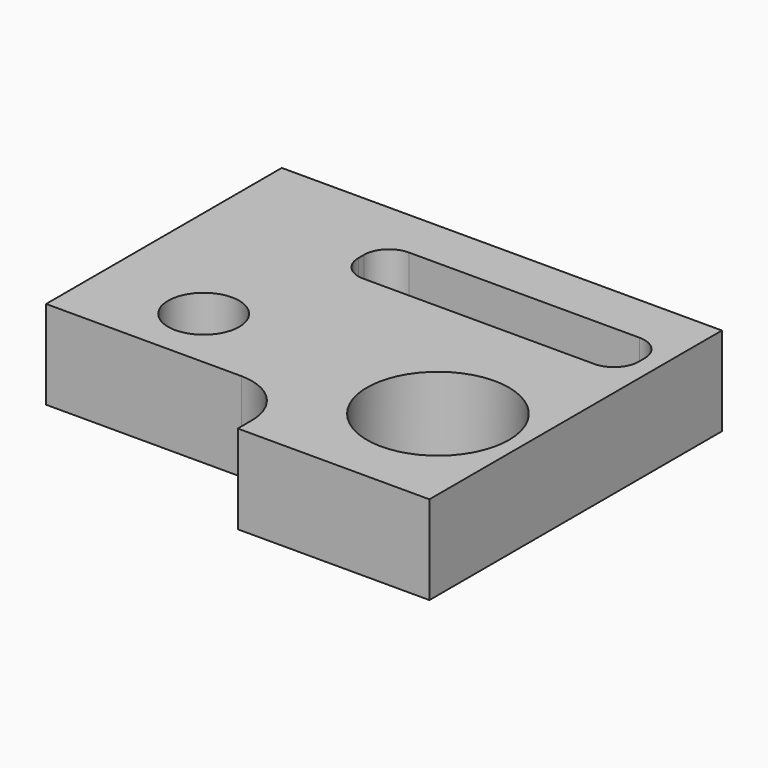
from build123d import *

# Parameters (mm, degrees)
F0_R     = 10
F0_R_2   = 20
F1_DEPTH = 25
F2_DEPTH = 25
F3_DEPTH = 25
F4_DEPTH = 25
F5_DEPTH = 25


with BuildPart() as f1:
    # F0 (on Top) → F1 (new body)
    with BuildSketch(Plane.XY):
        with BuildLine():
            Line((69.319781, 74.291547), (-54.680219, 74.291547))
            Line((-54.680219, 74.291547), (-54.680219, -8.708453))
            Line((-54.680219, -8.708453), (0.319781, -8.708453))
            ThreePointArc((0.319781, -8.708453), (10.926383, -13.101851), (15.319781, -23.708453))
            Line((15.319781, -23.708453), (15.319781, -28.708453))
            Line((15.319781, -28.708453), (69.319781, -28.708453))
            Line((69.319781, -28.708453), (69.319781, 74.291547))
        make_face()
        with Locations((-24.680219, 9.291547)):
            Circle(F0_R, mode=Mode.SUBTRACT)
        with Locations((45.319781, 4.291547)):
            Circle(F0_R_2, mode=Mode.SUBTRACT)
        with BuildLine():
            ThreePointArc((-14.680219, 53.291547), (-12.629966, 58.241294), (-7.680219, 60.291547))
            Line((-7.680219, 60.291547), (57.319781, 60.291547))
            ThreePointArc((57.319781, 60.291547), (62.269529, 58.241294), (64.319781, 53.291547))
            Line((64.319781, 53.291547), (64.319781, 51.291547))
            ThreePointArc((64.319781, 51.291547), (62.269529, 46.341799), (57.319781, 44.291547))
            Line((57.319781, 44.291547), (-7.680219, 44.291547))
            ThreePointArc((-7.680219, 44.291547), (-12.629966, 46.341799), (-14.680219, 51.291547))
            Line((-14.680219, 51.291547), (-14.680219, 53.291547))
        make_face(mode=Mode.SUBTRACT)
    extrude(amount=F1_DEPTH)

    # F0 (on Top) → F2 (join)
    with BuildSketch(Plane.XY):
        with BuildLine():
            Line((69.319781, 74.291547), (-54.680219, 74.291547))
            Line((-54.680219, 74.291547), (-54.680219, -8.708453))
            Line((-54.680219, -8.708453), (0.319781, -8.708453))
            ThreePointArc((0.319781, -8.708453), (10.926383, -13.101851), (15.319781, -23.708453))
            Line((15.319781, -23.708453), (15.319781, -28.708453))
            Line((15.319781, -28.708453), (69.319781, -28.708453))
            Line((69.319781, -28.708453), (69.319781, 74.291547))
        make_face()
        with Locations((-24.680219, 9.291547)):
            Circle(F0_R, mode=Mode.SUBTRACT)
        with Locations((45.319781, 4.291547)):
            Circle(F0_R_2, mode=Mode.SUBTRACT)
        with BuildLine():
            ThreePointArc((-14.680219, 53.291547), (-12.629966, 58.241294), (-7.680219, 60.291547))
            Line((-7.680219, 60.291547), (57.319781, 60.291547))
            ThreePointArc((57.319781, 60.291547), (62.269529, 58.241294), (64.319781, 53.291547))
            Line((64.319781, 53.291547), (64.319781, 51.291547))
            ThreePointArc((64.319781, 51.291547), (62.269529, 46.341799), (57.319781, 44.291547))
            Line((57.319781, 44.291547), (-7.680219, 44.291547))
            ThreePointArc((-7.680219, 44.291547), (-12.629966, 46.341799), (-14.680219, 51.291547))
            Line((-14.680219, 51.291547), (-14.680219, 53.291547))
        make_face(mode=Mode.SUBTRACT)
    extrude(amount=F2_DEPTH)

    # F0 (on Top) → F3 (join)
    with BuildSketch(Plane.XY):
        with BuildLine():
            Line((69.319781, 74.291547), (-54.680219, 74.291547))
            Line((-54.680219, 74.291547), (-54.680219, -8.708453))
            Line((-54.680219, -8.708453), (0.319781, -8.708453))
            ThreePointArc((0.319781, -8.708453), (10.926383, -13.101851), (15.319781, -23.708453))
            Line((15.319781, -23.708453), (15.319781, -28.708453))
            Line((15.319781, -28.708453), (69.319781, -28.708453))
            Line((69.319781, -28.708453), (69.319781, 74.291547))
        make_face()
        with Locations((-24.680219, 9.291547)):
            Circle(F0_R, mode=Mode.SUBTRACT)
        with Locations((45.319781, 4.291547)):
            Circle(F0_R_2, mode=Mode.SUBTRACT)
        with BuildLine():
            ThreePointArc((-14.680219, 53.291547), (-12.629966, 58.241294), (-7.680219, 60.291547))
            Line((-7.680219, 60.291547), (57.319781, 60.291547))
            ThreePointArc((57.319781, 60.291547), (62.269529, 58.241294), (64.319781, 53.291547))
            Line((64.319781, 53.291547), (64.319781, 51.291547))
            ThreePointArc((64.319781, 51.291547), (62.269529, 46.341799), (57.319781, 44.291547))
            Line((57.319781, 44.291547), (-7.680219, 44.291547))
            ThreePointArc((-7.680219, 44.291547), (-12.629966, 46.341799), (-14.680219, 51.291547))
            Line((-14.680219, 51.291547), (-14.680219, 53.291547))
        make_face(mode=Mode.SUBTRACT)
    extrude(amount=F3_DEPTH)

    # F0 (on Top) → F4 (join)
    with BuildSketch(Plane.XY):
        with BuildLine():
            Line((69.319781, 74.291547), (-54.680219, 74.291547))
            Line((-54.680219, 74.291547), (-54.680219, -8.708453))
            Line((-54.680219, -8.708453), (0.319781, -8.708453))
            ThreePointArc((0.319781, -8.708453), (10.926383, -13.101851), (15.319781, -23.708453))
            Line((15.319781, -23.708453), (15.319781, -28.708453))
            Line((15.319781, -28.708453), (69.319781, -28.708453))
            Line((69.319781, -28.708453), (69.319781, 74.291547))
        make_face()
        with Locations((-24.680219, 9.291547)):
            Circle(F0_R, mode=Mode.SUBTRACT)
        with Locations((45.319781, 4.291547)):
            Circle(F0_R_2, mode=Mode.SUBTRACT)
        with BuildLine():
            ThreePointArc((-14.680219, 53.291547), (-12.629966, 58.241294), (-7.680219, 60.291547))
            Line((-7.680219, 60.291547), (57.319781, 60.291547))
            ThreePointArc((57.319781, 60.291547), (62.269529, 58.241294), (64.319781, 53.291547))
            Line((64.319781, 53.291547), (64.319781, 51.291547))
            ThreePointArc((64.319781, 51.291547), (62.269529, 46.341799), (57.319781, 44.291547))
            Line((57.319781, 44.291547), (-7.680219, 44.291547))
            ThreePointArc((-7.680219, 44.291547), (-12.629966, 46.341799), (-14.680219, 51.291547))
            Line((-14.680219, 51.291547), (-14.680219, 53.291547))
        make_face(mode=Mode.SUBTRACT)
    extrude(amount=F4_DEPTH)

    # F0 (on Top) → F5 (join)
    with BuildSketch(Plane.XY):
        with BuildLine():
            Line((69.319781, 74.291547), (-54.680219, 74.291547))
            Line((-54.680219, 74.291547), (-54.680219, -8.708453))
            Line((-54.680219, -8.708453), (0.319781, -8.708453))
            ThreePointArc((0.319781, -8.708453), (10.926383, -13.101851), (15.319781, -23.708453))
            Line((15.319781, -23.708453), (15.319781, -28.708453))
            Line((15.319781, -28.708453), (69.319781, -28.708453))
            Line((69.319781, -28.708453), (69.319781, 74.291547))
        make_face()
        with Locations((-24.680219, 9.291547)):
            Circle(F0_R, mode=Mode.SUBTRACT)
        with Locations((45.319781, 4.291547)):
            Circle(F0_R_2, mode=Mode.SUBTRACT)
        with BuildLine():
            ThreePointArc((-14.680219, 53.291547), (-12.629966, 58.241294), (-7.680219, 60.291547))
            Line((-7.680219, 60.291547), (57.319781, 60.291547))
            ThreePointArc((57.319781, 60.291547), (62.269529, 58.241294), (64.319781, 53.291547))
            Line((64.319781, 53.291547), (64.319781, 51.291547))
            ThreePointArc((64.319781, 51.291547), (62.269529, 46.341799), (57.319781, 44.291547))
            Line((57.319781, 44.291547), (-7.680219, 44.291547))
            ThreePointArc((-7.680219, 44.291547), (-12.629966, 46.341799), (-14.680219, 51.291547))
            Line((-14.680219, 51.291547), (-14.680219, 53.291547))
        make_face(mode=Mode.SUBTRACT)
    extrude(amount=F5_DEPTH)


solid = f1.part
